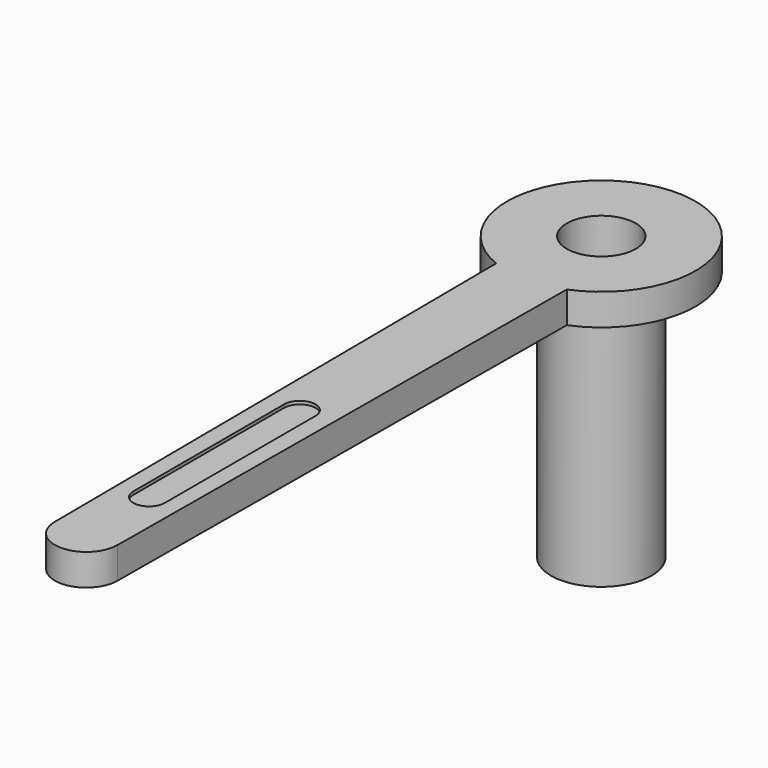
from build123d import *

# Parameters (mm, degrees)
PAD_DEPTH    = 1
POCKET_DEPTH = 0.1


with BuildPart() as part:
    # Sketch → Revolution (revolve)
    with BuildSketch(Plane.YZ):
        Polygon((-3, 0), (-1.1, 0), (-1.1, -9), (-1.6, -9), (-1.6, -1), (-3, -1), align=None)
    revolve(axis=Axis((0, 0, 0), (0, 0, 1)))

    # Sketch001 (on Face1 of Revolution) → Pad (new body)
    with BuildSketch(Plane(origin=(0, 0, 0), x_dir=(0, -1, 0), z_dir=(0, 0, 1))):
        with BuildLine():
            Line((2.781074, 1.125), (2.781074, -1.125))
            Line((2.781074, -1.125), (20.507022, -1))
            ThreePointArc((20.507022, -1), (21.5, 0), (20.507022, 1))
            Line((2.781074, 1.125), (20.507022, 1))
        make_face()
    extrude(amount=-PAD_DEPTH)

    # Sketch002 (on Face2 of Pad) → Pocket (cut)
    with BuildSketch(Plane(origin=(0, 0, 0), x_dir=(0, -1, 0), z_dir=(0, 0, 1))):
        with BuildLine():
            ThreePointArc((12, 0.5), (11.5, 0), (12, -0.5))
            Line((12, -0.5), (18, -0.5))
            ThreePointArc((18, -0.5), (18.5, 0), (18, 0.5))
            Line((12, 0.5), (18, 0.5))
        make_face()
    extrude(amount=-POCKET_DEPTH, mode=Mode.SUBTRACT)


solid = part.part
